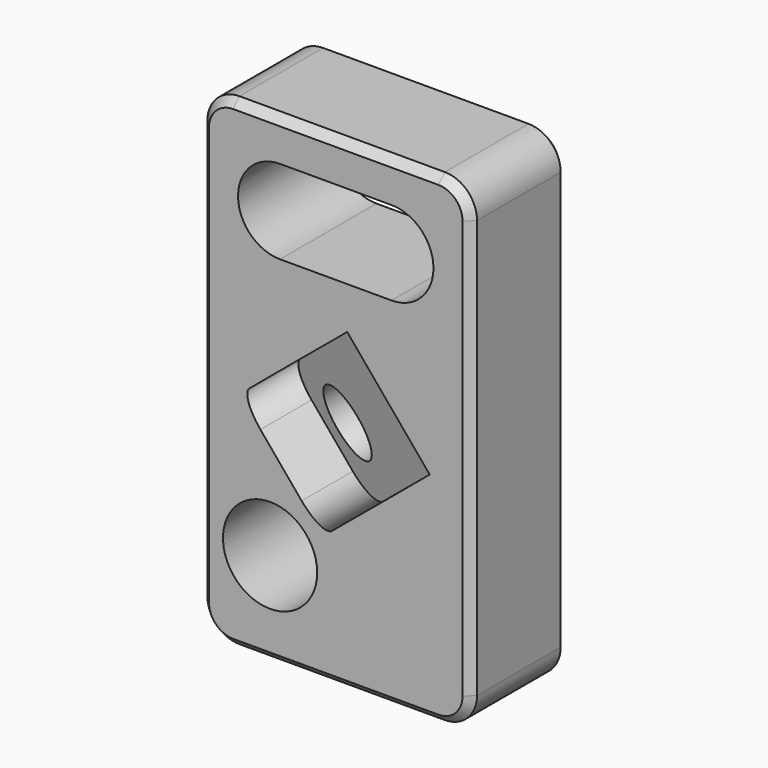
from build123d import *

# Parameters (mm, degrees)
F0_W      = 42.5921405452
F0_H      = 76.2
F1_DEPTH  = 19.05
F2_R      = 5.08
F3_R      = 7.4390090137
F4_DEPTH  = 25.4
F8_DEPTH  = 10.16
F9_R      = 5.08
F10_R     = 5.4254130452
F11_DEPTH = 25.4
F12_SIZE  = 1.27


with BuildPart() as f1:
    # F0 (on Front) → F1 (new body)
    with BuildSketch(Plane.XZ):
        Rectangle(F0_W, F0_H)
    extrude(amount=F1_DEPTH)

    # F2
    f2_edges = [f1.edges().sort_by_distance(p)[0] for p in [
        (-21.29607, -9.525, 38.1),
        (21.29607, -9.525, 38.1),
        (21.29607, -9.525, -38.1),
        (-21.29607, -9.525, -38.1),
    ]]
    fillet(f2_edges, radius=F2_R)

    # F3 (on face) → F4 (cut)
    with BuildSketch(Plane.XZ.offset(19.05)):
        with Locations((-10.371832177, -23.3288127929)):
            Circle(F3_R)
        with BuildLine():
            Line((8.7983496487, 31.6190682352), (-8.7983496487, 31.6190682352))
            ThreePointArc((-8.7983496487, 31.6190682352), (-15.4311150855, 24.9863027984), (-8.7983496487, 18.3535373615))
            Line((-8.7983496487, 18.3535373615), (8.7983496487, 18.3535373615))
            ThreePointArc((8.7983496487, 18.3535373615), (15.4311150855, 24.9863027984), (8.7983496487, 31.6190682352))
        make_face()
    extrude(amount=-F4_DEPTH, mode=Mode.SUBTRACT)

    # F7 (on face) → F8 (join, symmetric)
    with BuildSketch(Plane(origin=(1.5022693661, 0, -1.79863414), x_dir=(0.7675056841, 0, 0.6410421397), z_dir=(0.6410421397, 0, -0.7675056841))):
        Polygon((0.1007605708, 19.05), (8.8891370815, 19.05), (24.1558142006, 44.8086634278), (17.6520292383, 48.6633348998), align=None)
    extrude(amount=F8_DEPTH, both=True)

    # F9
    f9_edges = [f1.edges().sort_by_distance(p)[0] for p in [
        (11.03316, -46.735999, 19.399518),
        (24.059136, -46.735999, 3.803803),
    ]]
    fillet(f9_edges, radius=F9_R)

    # F10 (on face) → F11 (cut)
    with BuildSketch(Plane(origin=(-6.3556814341, -4.907967933, -5.3084422822), x_dir=(0.3913195596, -0.860258078, 0.3268410032), z_dir=(-0.6602529647, -0.5098588424, -0.551461679))):
        with Locations((41.8185740709, -1.9313164521)):
            Circle(F10_R)
    extrude(amount=-F11_DEPTH, mode=Mode.SUBTRACT)

    # F12
    f12_edges = [f1.edges().sort_by_distance(p)[0] for p in [
        (-21.29607, -19.05, 0),
        (-21.29607, 0, 0),
    ]]
    chamfer(f12_edges, length=F12_SIZE)


solid = f1.part
